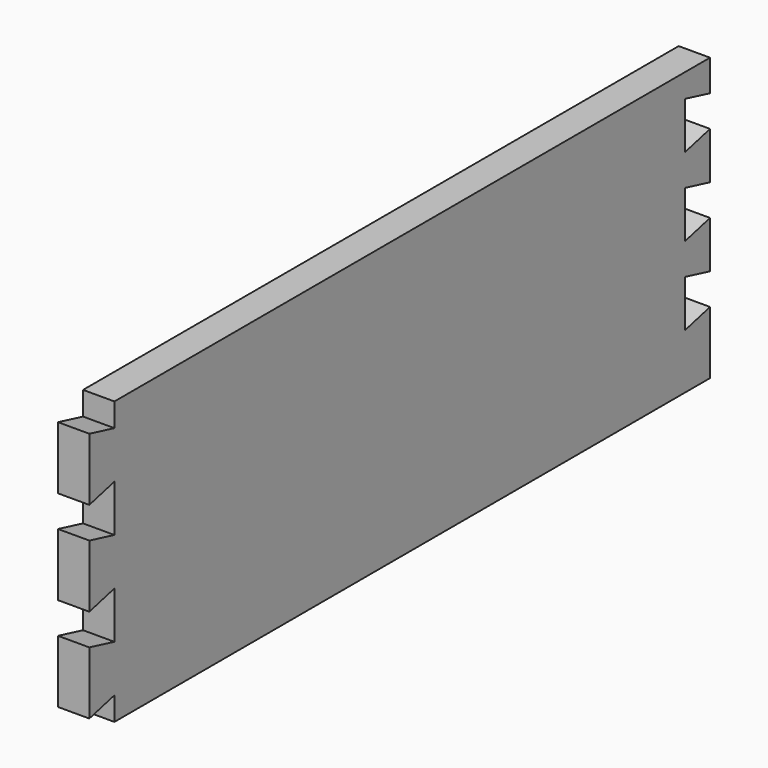
from build123d import *

# Parameters (mm, degrees)
F0_W     = 314.325
F0_H     = 114.3
F1_DEPTH = 12.7
F3_DEPTH = 12.701


with BuildPart() as f1:
    # F0 (on Right) → F1 (new body)
    with BuildSketch(Plane.YZ):
        with Locations((157.1625, 57.15)):
            Rectangle(F0_W, F0_H)
    extrude(amount=F1_DEPTH)

    # F2 (on face) → F3 (cut, through all)
    with BuildSketch(Plane.YZ.offset(12.7)):
        Polygon((12.7, 9.525), (0, 6.358534), (0, 0), (12.7, 0), align=None)
        Polygon((12.7, 47.625), (0, 44.458534), (0, 31.741466), (12.7, 28.575), align=None)
        Polygon((12.7, 85.725), (0, 82.558534), (0, 69.841466), (12.7, 66.675), align=None)
        Polygon((12.7, 104.775), (12.7, 114.3), (0, 114.3), (0, 107.941466), align=None)
        Polygon((314.325, 88.9), (314.325, 101.6), (301.625, 104.766466), (301.625, 85.733534), align=None)
        Polygon((314.325, 57.15), (314.325, 69.85), (301.625, 73.016466), (301.625, 53.983534), align=None)
        Polygon((314.325, 25.4), (314.325, 38.1), (301.625, 41.266466), (301.625, 22.233534), align=None)
    extrude(amount=-F3_DEPTH, mode=Mode.SUBTRACT)


solid = f1.part
